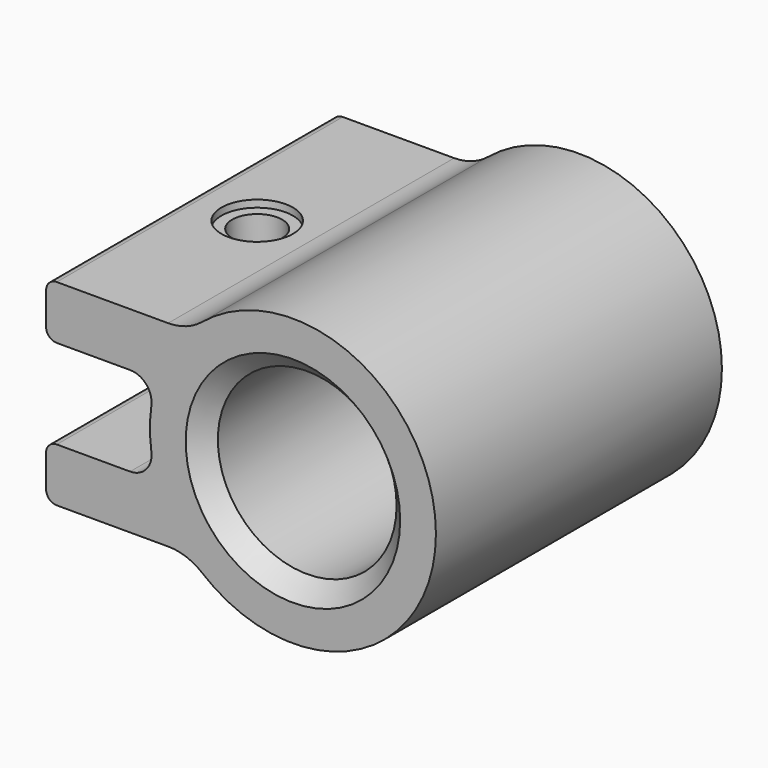
from build123d import *

# Parameters (mm, degrees)
F0_R          = 25
F1_DEPTH      = 50
F2_SIZE       = 5
F3_R          = 7
F4_DEPTH      = 80
F4_DEPTH_BACK = 25
F3_R_2        = 10
F5_DEPTH      = 2
F6_START      = -12
F6_DEPTH      = 8


with BuildPart() as f1:
    # F0 (on Front) → F1 (new body, symmetric)
    with BuildSketch(Plane.XZ):
        with BuildLine():
            ThreePointArc((-45.5384452963, 12.5), (-41.0059538996, 10.4314783147), (-39.5986480837, 5.652173913))
            ThreePointArc((-39.5986480837, 5.652173913), (-40, 0), (-39.5986480837, -5.652173913))
            ThreePointArc((-39.5986480837, -5.652173913), (-41.0059538996, -10.4314783147), (-45.5384452963, -12.5))
            Line((-45.5384452963, -12.5), (-66.0473750966, -12.5))
            ThreePointArc((-66.0473750966, -12.5), (-68.1686954401, -13.3786796564), (-69.0473750966, -15.5))
            Line((-69.0473750966, -15.5), (-69.0473750966, -24.5))
            ThreePointArc((-69.0473750966, -24.5), (-68.1686954401, -26.6213203436), (-66.0473750966, -27.5))
            Line((-66.0473750966, -27.5), (-34.9106001094, -27.5))
            ThreePointArc((-34.9106001094, -27.5), (-29.8541011409, -28.3779669246), (-25.3895273523, -30.9090909091))
            ThreePointArc((-25.3895273523, -30.9090909091), (40, 0), (-25.3895273523, 30.9090909091))
            ThreePointArc((-25.3895273523, 30.9090909091), (-29.8541011409, 28.3779669246), (-34.9106001094, 27.5))
            Line((-34.9106001094, 27.5), (-66.0473750966, 27.5))
            ThreePointArc((-66.0473750966, 27.5), (-68.1686954401, 26.6213203436), (-69.0473750966, 24.5))
            Line((-69.0473750966, 24.5), (-69.0473750966, 15.5))
            ThreePointArc((-69.0473750966, 15.5), (-68.1686954401, 13.3786796564), (-66.0473750966, 12.5))
            Line((-66.0473750966, 12.5), (-45.5384452963, 12.5))
        make_face()
        Circle(F0_R, mode=Mode.SUBTRACT)
    extrude(amount=F1_DEPTH, both=True)

    # F2
    f2_edges = [f1.edges().sort_by_distance(p)[0] for p in [
        (-25, -50, 0),
        (-25, 50, 0),
    ]]
    chamfer(f2_edges, length=F2_SIZE)

    # F3 (on face) → F4 (cut, two sides)
    with BuildSketch(Plane.XY.offset(27.5)) as f4_sk:
        with Locations((-50, 0)):
            Circle(F3_R)
    extrude(amount=-F4_DEPTH, mode=Mode.SUBTRACT)
    extrude(f4_sk.sketch, amount=F4_DEPTH_BACK, mode=Mode.SUBTRACT)

    # F3 (on face) → F5 (cut)
    with BuildSketch(Plane.XY.offset(27.5)):
        with Locations((-50, 0)):
            Circle(F3_R_2)
        with Locations((-50, 0)):
            Circle(F3_R, mode=Mode.SUBTRACT)
    extrude(amount=-F5_DEPTH, mode=Mode.SUBTRACT)

    # F3 (on face) → F6 (cut)
    with BuildSketch(Plane.XY.offset(27.5).offset(F6_START)):
        with Locations((-50, 0)):
            Circle(F3_R_2)
        with Locations((-50, 0)):
            Circle(F3_R, mode=Mode.SUBTRACT)
    extrude(amount=-F6_DEPTH, mode=Mode.SUBTRACT)


solid = f1.part
